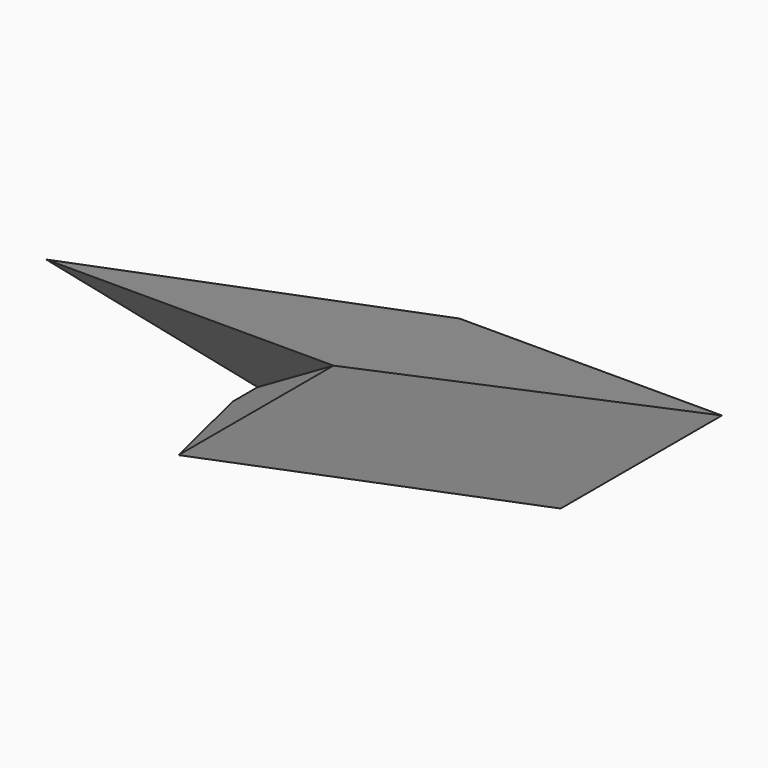
from build123d import *

# Parameters (mm, degrees)
F0_W      = 26.2442012317
F0_H      = 20.1540403068
F2_W      = 28.7365214899
F2_H      = 19.3730760366
F3_FACE_W = 28.7365214899
F3_FACE_H = 19.3730760366


with BuildPart() as f3:
    # F0 (on Top) → F3 section 0
    with BuildSketch(Plane.XY):
        with Locations((18.6274943408, 10.0770201534)):
            Rectangle(F0_W, F0_H)
    # F2 (on offset) → F3 section 1
    with BuildSketch(Plane.XY.offset(25)):
        with Locations((18.4328532778, -39.3927572295)):
            Rectangle(F2_W, F2_H)
    loft()

    # F3_face (on face) → F4 section 0
    with BuildSketch(Plane(origin=(18.4328532778, -39.3927572295, 25), x_dir=(1, 0, 0), z_dir=(0, 0, 1)), mode=Mode.PRIVATE) as f4_s0:
        Rectangle(F3_FACE_W, F3_FACE_H)
    loft([f4_s0.sketch, Vertex(0, 0, 0)], mode=Mode.SUBTRACT)


solid = f3.part
